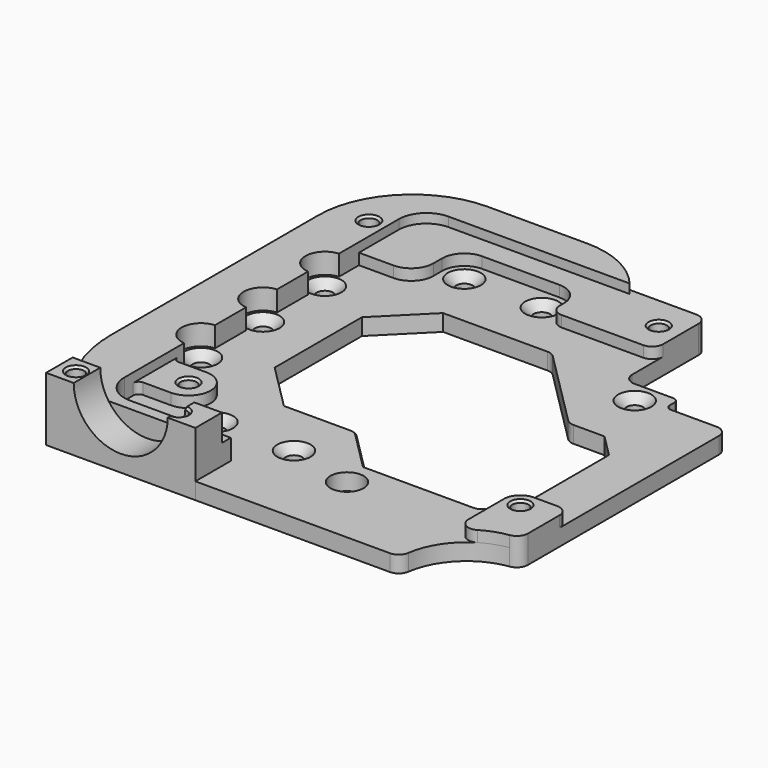
from build123d import *

# Parameters (mm, degrees)
SKETCH_R             = 1.5
PAD_DEPTH            = 3
CHAMFER_SIZE         = 1.5
SKETCH019_R          = 3
POCKET007_DEPTH      = 5
POCKET007_DEPTH_BACK = 100
SKETCH020_R          = 3
PAD006_DEPTH         = 4
PAD014_DEPTH         = 2
SKETCH021_R          = 1.45
POCKET008_DEPTH      = 10
POCKET008_DEPTH_BACK = 10
PAD018_DEPTH         = 6
PAD009_DEPTH         = 6.6788950282
FILLET_R             = 1
FILLET001_R          = 2
CHAMFER001_SIZE      = 0.2
SKETCH084_R          = 1.5
POCKET014_DEPTH      = 6.6798950282
CHAMFER004_SIZE      = 1.5
SKETCH092_R          = 1.45
POCKET018_DEPTH      = 28.6798950282
CHAMFER009_SIZE      = 0.4


with BuildPart() as part:
    # Sketch → Pad (new body)
    with BuildSketch(Plane.XY):
        with BuildLine():
            Line((-32, -44), (30.1435935394, -44))
            ThreePointArc((30.1435935394, -44), (31.4529008809, -43.511857892), (32.1230801767, -42.2857142857))
            ThreePointArc((42.2857142857, -32.1230801767), (35.5147186258, -35.5147186258), (32.1230801767, -42.2857142857))
            ThreePointArc((42.2857142857, -32.1230801767), (43.511857892, -31.4529008809), (44, -30.1435935394))
            Line((44, -30.1435935394), (44, 13))
            ThreePointArc((44, 13), (43.4142135624, 14.4142135624), (42, 15))
            Line((42, 15), (33.7448172036, 15))
            ThreePointArc((32.7448172036, 16), (33.0377104224, 15.2928932188), (33.7448172036, 15))
            Line((32.7448172036, 17), (32.7448172036, 16))
            ThreePointArc((32.7448172036, 17), (32.4519239848, 17.7071067812), (31.7448172036, 18))
            Line((24.7448172036, 18), (31.7448172036, 18))
            ThreePointArc((22.7448172036, 20), (23.3306036412, 18.5857864376), (24.7448172036, 18))
            Line((22.7448172036, 35), (22.7448172036, 20))
            ThreePointArc((22.7448172036, 35), (22.159030766, 36.4142135624), (20.7448172036, 37))
            Line((20.7448172036, 37), (-27, 37))
            ThreePointArc((-27, 37), (-30.5355339059, 35.5355339059), (-32, 32))
            Line((-32, 32), (-32, -44))
        make_face()
        with Locations((-14, 28)):
            Circle(SKETCH_R, mode=Mode.SUBTRACT)
        with Locations((0, 28)):
            Circle(SKETCH_R, mode=Mode.SUBTRACT)
        with Locations((0, -28)):
            Circle(SKETCH_R, mode=Mode.SUBTRACT)
        with Locations((-14, -28)):
            Circle(SKETCH_R, mode=Mode.SUBTRACT)
        with Locations((28, 14)):
            Circle(SKETCH_R, mode=Mode.SUBTRACT)
        with Locations((-28, -14)):
            Circle(SKETCH_R, mode=Mode.SUBTRACT)
        with Locations((-28, 0)):
            Circle(SKETCH_R, mode=Mode.SUBTRACT)
        with Locations((-28, 14)):
            Circle(SKETCH_R, mode=Mode.SUBTRACT)
        Polygon((9.8578643763, -18), (18, -9.8578643763), (18, 9.8578643763), (9.8578643763, 18), (-9.8578643763, 18), (-18, 9.8578643763), (-18, -9.8578643763), (-9.8578643763, -18), align=None, mode=Mode.SUBTRACT)
    extrude(amount=PAD_DEPTH)

    # Chamfer
    chamfer_edges = [part.edges().sort_by_distance(p)[0] for p in [
        (-1.5, -28, 3),
        (26.5, 14, 3),
        (-1.5, 28, 3),
        (-29.5, 0, 3),
    ]]
    chamfer(chamfer_edges, length=CHAMFER_SIZE)

    # Sketch019 (on Face1 of CopyPart__Feature008) → Pocket007 (cut, two sides)
    with BuildSketch(Plane(origin=(7.7448172036, 0, 2.4788950282), x_dir=(-1, 0, 0), z_dir=(0, 0, -1))) as pocket007_sk:
        with Locations((-4.0828427125, -30.8)):
            Circle(SKETCH019_R)
        Polygon((-23.7455844123, 2.8), (-17.3130471727, 2.8), (-10.2551827964, 9.8578643763), (4.5455844122, 9.8578643763), (4.5455844122, -18), (-3.2544155877, -25.8), (-23.7455844123, -25.8), (-27.8, -21.7455844123), (-27.8, -1.2544155877), align=None)
    extrude(amount=-POCKET007_DEPTH, mode=Mode.SUBTRACT)
    extrude(pocket007_sk.sketch, amount=POCKET007_DEPTH_BACK, mode=Mode.SUBTRACT)

    # Sketch020 (on Face1 of CopyPart__Feature008001) → Pad006 (join)
    with BuildSketch(Plane(origin=(7.7448172036, 0, 4.9788950282), x_dir=(-1, 0, 0), z_dir=(0, 0, -1))):
        with Locations((-11, 31)):
            Circle(SKETCH020_R)
        with Locations((-30, -24)):
            Circle(SKETCH020_R)
        with Locations((30, -24)):
            Circle(SKETCH020_R)
    extrude(amount=PAD006_DEPTH)

    # Sketch037 (on Face4 of Pad006) → Pad014 (join)
    with BuildSketch(Plane.XY.offset(3)):
        with BuildLine():
            ThreePointArc((-22.2551827964, -28), (-18.2551827964, -24), (-22.2551827964, -20))
            Line((-22.2551827964, -20), (-32, -20))
            Line((-32, -20), (-32, -28))
            Line((-32, -28), (-22.2551827964, -28))
        make_face()
        with BuildLine():
            ThreePointArc((-22, 22), (-19.1715728753, 23.1715728753), (-18, 26))
            Line((-18, 28), (-18, 26))
            ThreePointArc((-14, 32), (-16.8284271247, 30.8284271247), (-18, 28))
            Line((-14, 32), (0, 32))
            ThreePointArc((4, 28), (2.8284271247, 30.8284271247), (0, 32))
            Line((4, 28), (4, 27))
            ThreePointArc((4, 27), (4.5857864376, 25.5857864376), (6, 25))
            Line((20.7448172036, 25), (6, 25))
            ThreePointArc((20.7448172036, 25), (22.159030766, 25.5857864376), (22.7448172036, 27))
            Line((22.7448172036, 35), (22.7448172036, 27))
            ThreePointArc((22.7448172036, 35), (22.159030766, 36.4142135624), (20.7448172036, 37))
            Line((20.7448172036, 37), (-27, 37))
            ThreePointArc((-27, 37), (-30.5355339059, 35.5355339059), (-32, 32))
            Line((-32, 32), (-32, 22))
            Line((-32, 22), (-22, 22))
        make_face()
        with BuildLine():
            ThreePointArc((37.7448172036, -21), (35.6234968601, -21.8786796564), (34.7448172036, -24))
            Line((34.7448172036, -32.0265993723), (34.7448172036, -24))
            ThreePointArc((34.7448172036, -32.0265993723), (35.7632137629, -33.7691419644), (37.7812718888, -33.7370851763))
            ThreePointArc((42.2857142857, -32.1230801767), (39.9522314637, -32.7032938484), (37.7812718888, -33.7370851763))
            ThreePointArc((42.2857142857, -32.1230801767), (43.511857892, -31.4529008809), (44, -30.1435935394))
            Line((44, -23), (44, -30.1435935394))
            ThreePointArc((44, -23), (43.4142135624, -21.5857864376), (42, -21))
            Line((37.7448172036, -21), (42, -21))
        make_face()
    extrude(amount=PAD014_DEPTH)

    # Sketch021 → Pocket008 (cut, two sides)
    with BuildSketch(Plane.XY) as pocket008_sk:
        with Locations((18.7448172036, 31)):
            Circle(SKETCH021_R)
        with Locations((37.7448172036, -24)):
            Circle(SKETCH021_R)
        with Locations((-22.2551827964, -24)):
            Circle(SKETCH021_R)
    extrude(amount=-POCKET008_DEPTH, mode=Mode.SUBTRACT)
    extrude(pocket008_sk.sketch, amount=POCKET008_DEPTH_BACK, mode=Mode.SUBTRACT)

    # Sketch047 (on Face1 of ShapeBinder003) → Pad018 (join)
    with BuildSketch(Plane(origin=(0, -38.0039418631, 0), x_dir=(-1, 0, 0), z_dir=(0, 1, 0))):
        with BuildLine():
            Line((5.016001945, 11.5), (10.0080009725, 11.5))
            ThreePointArc((10.0080009725, 11.5), (18.5080009725, 3.0000209515), (27.0080009725, 11.5))
            Line((27.0080009725, 11.5), (32, 11.5))
            Line((32, 11.5), (32, 0))
            Line((32, 0), (5.016001945, 0))
            Line((5.016001945, 0), (5.016001945, 11.5))
        make_face()
    extrude(amount=-PAD018_DEPTH)

    # Sketch025 → Pad009 (join)
    with BuildSketch(Plane.XY):
        with BuildLine():
            Line((-2.8599687425, 41.8047859461), (-20.8599687425, 41.8047859461))
            ThreePointArc((-20.8599687425, 41.8047859461), (-32.8807840227, 36.8256012263), (-37.8599687425, 24.8047859461))
            Line((-37.8599687425, -21.9210564422), (-37.8599687425, 24.8047859461))
            ThreePointArc((-37.8599687425, -21.9210564422), (-36.3493363525, -30.4796550005), (-32, -38.0039418631))
            Line((-5.016001945, -38.0039418631), (-32, -38.0039418631))
            Line((-5.016001945, -38.0039418631), (-5.016001945, -36))
            Line((-5.016001945, -36), (-23.2551827964, -36))
            ThreePointArc((-28.2551827964, -31), (-26.7907167023, -34.5355339059), (-23.2551827964, -36))
            Line((-28.2551827964, -31), (-28.2551827964, -17.4906849959))
            ThreePointArc((-28.2551827964, -10.5093150041), (-31.5, -14), (-28.2551827964, -17.4906849959))
            Line((-28.2551827964, -10.5093150041), (-28.2551827964, -3.4906849959))
            ThreePointArc((-28.2551827964, 3.4906849959), (-31.5, 0), (-28.2551827964, -3.4906849959))
            Line((-28.2551827964, 3.4906849959), (-28.2551827964, 10.5093150041))
            ThreePointArc((-28.2551827964, 17.4906849959), (-31.5, 14), (-28.2551827964, 10.5093150041))
            Line((-28.2551827964, 17.4906849959), (-28.2551827964, 31))
            ThreePointArc((-23.2551827964, 36), (-26.7907167023, 34.5355339059), (-28.2551827964, 31))
            Line((9.4711954522, 36), (-23.2551827964, 36))
            ThreePointArc((9.4711954522, 36), (3.9545956287, 40.2810324358), (-2.8599687425, 41.8047859461))
        make_face()
    extrude(amount=PAD009_DEPTH)

    # Fillet
    fillet_edges = [part.edges().sort_by_distance(p)[0] for p in [
        (-28.255183, -20, 4),
        (-28.255183, -28, 4),
    ]]
    fillet(fillet_edges, radius=FILLET_R)

    # Fillet001
    fillet001_edges = [part.edges().sort_by_distance(p)[0] for p in [
        (9.857864, 18, 1.5),
        (35.544817, -21.745584, 1.5),
        (25.057864, 2.8, 1.5),
        (31.490402, -25.8, 1.5),
        (3.199233, -18, 1.5),
    ]]
    fillet(fillet001_edges, radius=FILLET001_R)

    # Chamfer001
    chamfer001_edges = [part.edges().sort_by_distance(p)[0] for p in [
        (7.392126, -22.192893, 3),
    ]]
    chamfer(chamfer001_edges, length=CHAMFER001_SIZE)

    # Sketch084 (on Face77 of Chamfer001) → Pocket014 (cut, through all)
    with BuildSketch(Plane.XY.offset(6.6788950282)):
        with Locations((-31.2551827964, 28)):
            Circle(SKETCH084_R)
    extrude(amount=-POCKET014_DEPTH, mode=Mode.SUBTRACT)

    # Chamfer004
    chamfer004_edges = [part.edges().sort_by_distance(p)[0] for p in [
        (-15.5, 28, 3),
        (-15.5, -28, 3),
        (-29.5, 14, 3),
        (-29.5, -14, 3),
    ]]
    chamfer(chamfer004_edges, length=CHAMFER004_SIZE)

    # Sketch092 (on Face1 of CopyCopyPad022) → Pocket018 (cut, through all)
    with BuildSketch(Plane.XY.offset(28.6788950282)):
        with Locations((-29, -41.0039418631)):
            Circle(SKETCH092_R)
        with Locations((-10.0080009725, -41.5039418631)):
            Circle(SKETCH092_R)
    extrude(amount=-POCKET018_DEPTH, mode=Mode.SUBTRACT)

    # Chamfer009
    chamfer009_edges = [part.edges().sort_by_distance(p)[0] for p in [
        (-32.755183, 28, 6.678895),
        (17.294817, 31, 5),
        (36.294817, -24, 5),
        (-23.705183, -24, 5),
        (-30.45, -41.003942, 11.5),
        (-8.982696, -42.529247, 11.5),
    ]]
    chamfer(chamfer009_edges, length=CHAMFER009_SIZE)


solid = part.part
